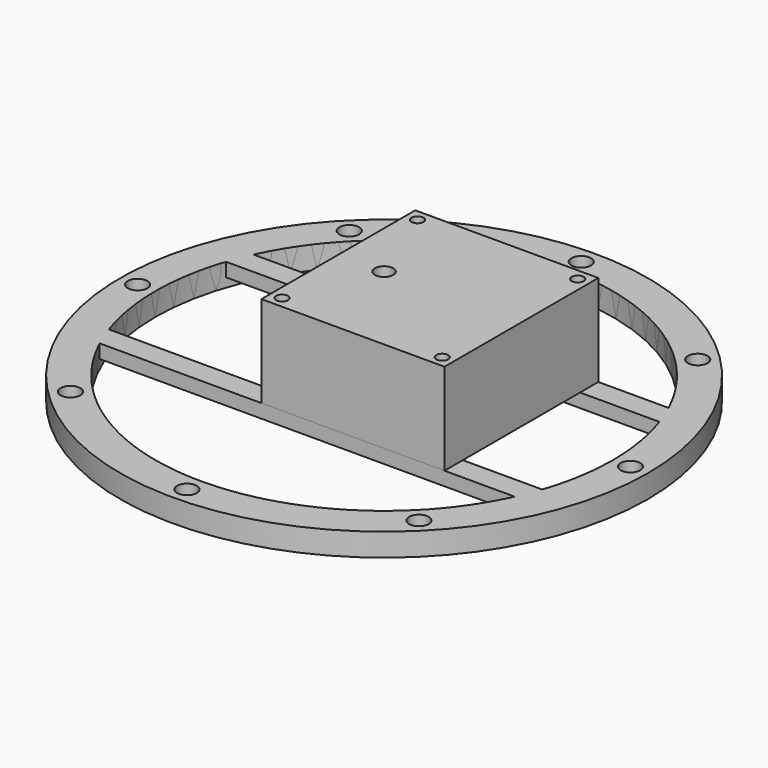
from build123d import *

# Parameters (mm, degrees)
CYLINDER003_R               = 2.15
CYLINDER003_DEPTH           = 5
COMPOUND001_PLACEMENT_ANGLE = 45
CYLINDER004_R               = 2.15
CYLINDER004_DEPTH           = 5
COMPOUND002_PLACEMENT_ANGLE = 90
CYLINDER005_R               = 2.15
CYLINDER005_DEPTH           = 5
COMPOUND003_PLACEMENT_ANGLE = 135
CYLINDER006_R               = 2.15
CYLINDER006_DEPTH           = 5
COMPOUND004_PLACEMENT_ANGLE = 180
CYLINDER007_R               = 2.15
CYLINDER007_DEPTH           = 5
COMPOUND005_PLACEMENT_ANGLE = 225
CYLINDER008_R               = 2.15
CYLINDER008_DEPTH           = 5
COMPOUND006_PLACEMENT_ANGLE = 270
CYLINDER009_R               = 2.15
CYLINDER009_DEPTH           = 5
COMPOUND007_PLACEMENT_ANGLE = 315
CYLINDER002_R               = 2.15
CYLINDER002_DEPTH           = 5
CYLINDER001_R               = 50
CYLINDER001_DEPTH           = 5
CYLINDER_R                  = 57.66
CYLINDER_DEPTH              = 5
CYLINDER022_R               = 1.3
CYLINDER022_DEPTH           = 20
CYLINDER023_R               = 1.3
CYLINDER023_DEPTH           = 20
CYLINDER024_R               = 1.3
CYLINDER024_DEPTH           = 20
CYLINDER021_R               = 1.3
CYLINDER021_DEPTH           = 20
CYLINDER020_R               = 2
CYLINDER020_DEPTH           = 20
BOX_W                       = 40
BOX_H                       = 42
BOX_DEPTH                   = 20
CYLINDER026_R               = 1.3
CYLINDER026_DEPTH           = 20
CYLINDER027_R               = 1.3
CYLINDER027_DEPTH           = 20
CYLINDER028_R               = 1.3
CYLINDER028_DEPTH           = 20
CYLINDER025_R               = 1.3
CYLINDER025_DEPTH           = 20
CYLINDER029_R               = 57.66
CYLINDER029_DEPTH           = 5
BOX002_W                    = 115.32
BOX002_H                    = 5
BOX002_DEPTH                = 3
BOX001_W                    = 115.32
BOX001_H                    = 5
BOX001_DEPTH                = 3
CYLINDER013_R               = 2.15
CYLINDER013_DEPTH           = 5
COMPOUND010_PLACEMENT_ANGLE = 45
CYLINDER014_R               = 2.15
CYLINDER014_DEPTH           = 5
COMPOUND011_PLACEMENT_ANGLE = 90
CYLINDER015_R               = 2.15
CYLINDER015_DEPTH           = 5
COMPOUND012_PLACEMENT_ANGLE = 135
CYLINDER016_R               = 2.15
CYLINDER016_DEPTH           = 5
COMPOUND013_PLACEMENT_ANGLE = 180
CYLINDER017_R               = 2.15
CYLINDER017_DEPTH           = 5
COMPOUND014_PLACEMENT_ANGLE = 225
CYLINDER018_R               = 2.15
CYLINDER018_DEPTH           = 5
COMPOUND015_PLACEMENT_ANGLE = 90
CYLINDER019_R               = 2.15
CYLINDER019_DEPTH           = 5
COMPOUND016_PLACEMENT_ANGLE = 45
CYLINDER012_R               = 2.15
CYLINDER012_DEPTH           = 5
CYLINDER011_R               = 50
CYLINDER011_DEPTH           = 5
CYLINDER010_R               = 57.66
CYLINDER010_DEPTH           = 5


with BuildPart() as compound001:
    # Cylinder003 → Cylinder003 (new body)
    with BuildSketch(Plane(origin=(53.83, 0, 0), x_dir=(1, 0, 0), z_dir=(0, 0, 1))):
        Circle(CYLINDER003_R)
    extrude(amount=CYLINDER003_DEPTH)


with BuildPart() as compound001_1:
    # Compound001 placement: moved
    add(compound001.part.rotate(Axis((0, 0, 0), (0, 0, 1)), COMPOUND001_PLACEMENT_ANGLE))


with BuildPart() as compound002:
    # Cylinder004 → Cylinder004 (new body)
    with BuildSketch(Plane(origin=(53.83, 0, 0), x_dir=(1, 0, 0), z_dir=(0, 0, 1))):
        Circle(CYLINDER004_R)
    extrude(amount=CYLINDER004_DEPTH)


with BuildPart() as compound002_1:
    # Compound002 placement: moved
    add(compound002.part.rotate(Axis((0, 0, 0), (0, 0, 1)), COMPOUND002_PLACEMENT_ANGLE))


with BuildPart() as compound003:
    # Cylinder005 → Cylinder005 (new body)
    with BuildSketch(Plane(origin=(53.83, 0, 0), x_dir=(1, 0, 0), z_dir=(0, 0, 1))):
        Circle(CYLINDER005_R)
    extrude(amount=CYLINDER005_DEPTH)


with BuildPart() as compound003_1:
    # Compound003 placement: moved
    add(compound003.part.rotate(Axis((0, 0, 0), (0, 0, 1)), COMPOUND003_PLACEMENT_ANGLE))


with BuildPart() as compound004:
    # Cylinder006 → Cylinder006 (new body)
    with BuildSketch(Plane(origin=(53.83, 0, 0), x_dir=(1, 0, 0), z_dir=(0, 0, 1))):
        Circle(CYLINDER006_R)
    extrude(amount=CYLINDER006_DEPTH)


with BuildPart() as compound004_1:
    # Compound004 placement: moved
    add(compound004.part.rotate(Axis((0, 0, 0), (0, 0, 1)), COMPOUND004_PLACEMENT_ANGLE))


with BuildPart() as compound005:
    # Cylinder007 → Cylinder007 (new body)
    with BuildSketch(Plane(origin=(53.83, 0, 0), x_dir=(1, 0, 0), z_dir=(0, 0, 1))):
        Circle(CYLINDER007_R)
    extrude(amount=CYLINDER007_DEPTH)


with BuildPart() as compound005_1:
    # Compound005 placement: moved
    add(compound005.part.rotate(Axis((0, 0, 0), (0, 0, 1)), COMPOUND005_PLACEMENT_ANGLE))


with BuildPart() as compound006:
    # Cylinder008 → Cylinder008 (new body)
    with BuildSketch(Plane(origin=(53.83, 0, 0), x_dir=(1, 0, 0), z_dir=(0, 0, 1))):
        Circle(CYLINDER008_R)
    extrude(amount=CYLINDER008_DEPTH)


with BuildPart() as compound006_1:
    # Compound006 placement: moved
    add(compound006.part.rotate(Axis((0, 0, 0), (0, 0, 1)), COMPOUND006_PLACEMENT_ANGLE))


with BuildPart() as compound007:
    # Cylinder009 → Cylinder009 (new body)
    with BuildSketch(Plane(origin=(53.83, 0, 0), x_dir=(1, 0, 0), z_dir=(0, 0, 1))):
        Circle(CYLINDER009_R)
    extrude(amount=CYLINDER009_DEPTH)


with BuildPart() as compound007_1:
    # Compound007 placement: moved
    add(compound007.part.rotate(Axis((0, 0, 0), (0, 0, 1)), COMPOUND007_PLACEMENT_ANGLE))


with BuildPart() as m4throughholes:
    # Cylinder002 → Cylinder002 (new body)
    with BuildSketch(Plane(origin=(53.83, 0, 0), x_dir=(1, 0, 0), z_dir=(0, 0, 1))):
        Circle(CYLINDER002_R)
    extrude(amount=CYLINDER002_DEPTH)

    # Compound008: union Compound001, Compound002, Compound003, Compound004, Compound005, Compound006, Compound007
    add(compound001_1.part)
    add(compound002_1.part)
    add(compound003_1.part)
    add(compound004_1.part)
    add(compound005_1.part)
    add(compound006_1.part)
    add(compound007_1.part)


with BuildPart() as cylinder001:
    # Cylinder001 → Cylinder001 (new body)
    with BuildSketch(Plane.XY):
        Circle(CYLINDER001_R)
    extrude(amount=CYLINDER001_DEPTH)


with BuildPart() as outerbasering:
    # Cylinder → Cylinder (new body)
    with BuildSketch(Plane.XY):
        Circle(CYLINDER_R)
    extrude(amount=CYLINDER_DEPTH)

    # Cut: cut Cylinder001
    add(cylinder001.part, mode=Mode.SUBTRACT)

    # Cut001: cut M4ThroughHoles
    add(m4throughholes.part, mode=Mode.SUBTRACT)


with BuildPart() as cylinder022:
    # Cylinder022 → Cylinder022 (new body)
    with BuildSketch(Plane(origin=(37.5, 2.5, 0), x_dir=(1, 0, 0), z_dir=(0, 0, 1))):
        Circle(CYLINDER022_R)
    extrude(amount=CYLINDER022_DEPTH)


with BuildPart() as cylinder023:
    # Cylinder023 → Cylinder023 (new body)
    with BuildSketch(Plane(origin=(2.5, 39.5, 0), x_dir=(1, 0, 0), z_dir=(0, 0, 1))):
        Circle(CYLINDER023_R)
    extrude(amount=CYLINDER023_DEPTH)


with BuildPart() as cylinder024:
    # Cylinder024 → Cylinder024 (new body)
    with BuildSketch(Plane(origin=(37.5, 39.5, 0), x_dir=(1, 0, 0), z_dir=(0, 0, 1))):
        Circle(CYLINDER024_R)
    extrude(amount=CYLINDER024_DEPTH)


with BuildPart() as compound018:
    # Cylinder021 → Cylinder021 (new body)
    with BuildSketch(Plane(origin=(2.5, 2.5, 0), x_dir=(1, 0, 0), z_dir=(0, 0, 1))):
        Circle(CYLINDER021_R)
    extrude(amount=CYLINDER021_DEPTH)

    # Compound018: union Cylinder022, Cylinder023, Cylinder024
    add(cylinder022.part)
    add(cylinder023.part)
    add(cylinder024.part)


with BuildPart() as cylinder020:
    # Cylinder020 → Cylinder020 (new body)
    with BuildSketch(Plane(origin=(10, 21, 0), x_dir=(1, 0, 0), z_dir=(0, 0, 1))):
        Circle(CYLINDER020_R)
    extrude(amount=CYLINDER020_DEPTH)


with BuildPart() as pcbstacktemplate:
    # Box → Box (new body)
    with BuildSketch(Plane.XY):
        with Locations((20, 21)):
            Rectangle(BOX_W, BOX_H)
    extrude(amount=BOX_DEPTH)

    # Cut004: cut Cylinder020
    add(cylinder020.part, mode=Mode.SUBTRACT)

    # Cut005: cut Compound018
    add(compound018.part, mode=Mode.SUBTRACT)


with BuildPart() as pcbstacktemplate_1:
    # Cut005 placement: moved
    add(pcbstacktemplate.part.moved(Location((-10, -21, 5))))


with BuildPart() as cylinder026:
    # Cylinder026 → Cylinder026 (new body)
    with BuildSketch(Plane(origin=(37.5, 2.5, 0), x_dir=(1, 0, 0), z_dir=(0, 0, 1))):
        Circle(CYLINDER026_R)
    extrude(amount=CYLINDER026_DEPTH)


with BuildPart() as cylinder027:
    # Cylinder027 → Cylinder027 (new body)
    with BuildSketch(Plane(origin=(2.5, 39.5, 0), x_dir=(1, 0, 0), z_dir=(0, 0, 1))):
        Circle(CYLINDER027_R)
    extrude(amount=CYLINDER027_DEPTH)


with BuildPart() as cylinder028:
    # Cylinder028 → Cylinder028 (new body)
    with BuildSketch(Plane(origin=(37.5, 39.5, 0), x_dir=(1, 0, 0), z_dir=(0, 0, 1))):
        Circle(CYLINDER028_R)
    extrude(amount=CYLINDER028_DEPTH)


with BuildPart() as m3mountholes:
    # Cylinder025 → Cylinder025 (new body)
    with BuildSketch(Plane(origin=(2.5, 2.5, 0), x_dir=(1, 0, 0), z_dir=(0, 0, 1))):
        Circle(CYLINDER025_R)
    extrude(amount=CYLINDER025_DEPTH)

    # Compound019: union Cylinder026, Cylinder027, Cylinder028
    add(cylinder026.part)
    add(cylinder027.part)
    add(cylinder028.part)


with BuildPart() as m3mountholes_1:
    # Compound019 placement: moved
    add(m3mountholes.part.moved(Location((-10, -21, 0))))


with BuildPart() as cylinder029:
    # Cylinder029 → Cylinder029 (new body)
    with BuildSketch(Plane.XY):
        Circle(CYLINDER029_R)
    extrude(amount=CYLINDER029_DEPTH)


with BuildPart() as cube002:
    # Box002 → Box002 (new body)
    with BuildSketch(Plane(origin=(-57.66, 16, 2), x_dir=(1, 0, 0), z_dir=(0, 0, 1))):
        with Locations((57.66, 2.5)):
            Rectangle(BOX002_W, BOX002_H)
    extrude(amount=BOX002_DEPTH)


with BuildPart() as cut006:
    # Box001 → Box001 (new body)
    with BuildSketch(Plane(origin=(-57.66, -21, 2), x_dir=(1, 0, 0), z_dir=(0, 0, 1))):
        with Locations((57.66, 2.5)):
            Rectangle(BOX001_W, BOX001_H)
    extrude(amount=BOX001_DEPTH)

    # Fusion: union Cube002
    add(cube002.part)

    # Common: intersect Cylinder029
    add(cylinder029.part, mode=Mode.INTERSECT)

    # Cut006: cut M3Mountholes
    add(m3mountholes_1.part, mode=Mode.SUBTRACT)


with BuildPart() as compound010:
    # Cylinder013 → Cylinder013 (new body)
    with BuildSketch(Plane(origin=(53.83, 0, 0), x_dir=(1, 0, 0), z_dir=(0, 0, 1))):
        Circle(CYLINDER013_R)
    extrude(amount=CYLINDER013_DEPTH)


with BuildPart() as compound010_1:
    # Compound010 placement: moved
    add(compound010.part.rotate(Axis((0, 0, 0), (0, 0, 1)), COMPOUND010_PLACEMENT_ANGLE))


with BuildPart() as compound011:
    # Cylinder014 → Cylinder014 (new body)
    with BuildSketch(Plane(origin=(53.83, 0, 0), x_dir=(1, 0, 0), z_dir=(0, 0, 1))):
        Circle(CYLINDER014_R)
    extrude(amount=CYLINDER014_DEPTH)


with BuildPart() as compound011_1:
    # Compound011 placement: moved
    add(compound011.part.rotate(Axis((0, 0, 0), (0, 0, 1)), COMPOUND011_PLACEMENT_ANGLE))


with BuildPart() as compound012:
    # Cylinder015 → Cylinder015 (new body)
    with BuildSketch(Plane(origin=(53.83, 0, 0), x_dir=(1, 0, 0), z_dir=(0, 0, 1))):
        Circle(CYLINDER015_R)
    extrude(amount=CYLINDER015_DEPTH)


with BuildPart() as compound012_1:
    # Compound012 placement: moved
    add(compound012.part.rotate(Axis((0, 0, 0), (0, 0, 1)), COMPOUND012_PLACEMENT_ANGLE))


with BuildPart() as compound013:
    # Cylinder016 → Cylinder016 (new body)
    with BuildSketch(Plane(origin=(53.83, 0, 0), x_dir=(1, 0, 0), z_dir=(0, 0, 1))):
        Circle(CYLINDER016_R)
    extrude(amount=CYLINDER016_DEPTH)


with BuildPart() as compound013_1:
    # Compound013 placement: moved
    add(compound013.part.rotate(Axis((0, 0, 0), (0, 0, 1)), COMPOUND013_PLACEMENT_ANGLE))


with BuildPart() as compound014:
    # Cylinder017 → Cylinder017 (new body)
    with BuildSketch(Plane(origin=(53.83, 0, 0), x_dir=(1, 0, 0), z_dir=(0, 0, 1))):
        Circle(CYLINDER017_R)
    extrude(amount=CYLINDER017_DEPTH)


with BuildPart() as compound014_1:
    # Compound014 placement: moved
    add(compound014.part.rotate(Axis((0, 0, 0), (0, 0, 1)), COMPOUND014_PLACEMENT_ANGLE))


with BuildPart() as compound015:
    # Cylinder018 → Cylinder018 (new body)
    with BuildSketch(Plane(origin=(53.83, 0, 0), x_dir=(1, 0, 0), z_dir=(0, 0, 1))):
        Circle(CYLINDER018_R)
    extrude(amount=CYLINDER018_DEPTH)


with BuildPart() as compound015_1:
    # Compound015 placement: moved
    add(compound015.part.rotate(Axis((0, 0, 0), (0, 0, -1)), COMPOUND015_PLACEMENT_ANGLE))


with BuildPart() as compound016:
    # Cylinder019 → Cylinder019 (new body)
    with BuildSketch(Plane(origin=(53.83, 0, 0), x_dir=(1, 0, 0), z_dir=(0, 0, 1))):
        Circle(CYLINDER019_R)
    extrude(amount=CYLINDER019_DEPTH)


with BuildPart() as compound016_1:
    # Compound016 placement: moved
    add(compound016.part.rotate(Axis((0, 0, 0), (0, 0, -1)), COMPOUND016_PLACEMENT_ANGLE))


with BuildPart() as m4throughholes001:
    # Cylinder012 → Cylinder012 (new body)
    with BuildSketch(Plane(origin=(53.83, 0, 0), x_dir=(1, 0, 0), z_dir=(0, 0, 1))):
        Circle(CYLINDER012_R)
    extrude(amount=CYLINDER012_DEPTH)

    # Compound017: union Compound010, Compound011, Compound012, Compound013, Compound014, Compound015, Compound016
    add(compound010_1.part)
    add(compound011_1.part)
    add(compound012_1.part)
    add(compound013_1.part)
    add(compound014_1.part)
    add(compound015_1.part)
    add(compound016_1.part)


with BuildPart() as cylinder011:
    # Cylinder011 → Cylinder011 (new body)
    with BuildSketch(Plane.XY):
        Circle(CYLINDER011_R)
    extrude(amount=CYLINDER011_DEPTH)


with BuildPart() as obj1:
    # Cylinder010 → Cylinder010 (new body)
    with BuildSketch(Plane.XY):
        Circle(CYLINDER010_R)
    extrude(amount=CYLINDER010_DEPTH)

    # Cut002: cut Cylinder011
    add(cylinder011.part, mode=Mode.SUBTRACT)

    # Cut003: cut M4ThroughHoles001
    add(m4throughholes001.part, mode=Mode.SUBTRACT)

    # Fusion001: union Cut006
    add(cut006.part)


solid = Compound([outerbasering.part, pcbstacktemplate_1.part, obj1.part])
